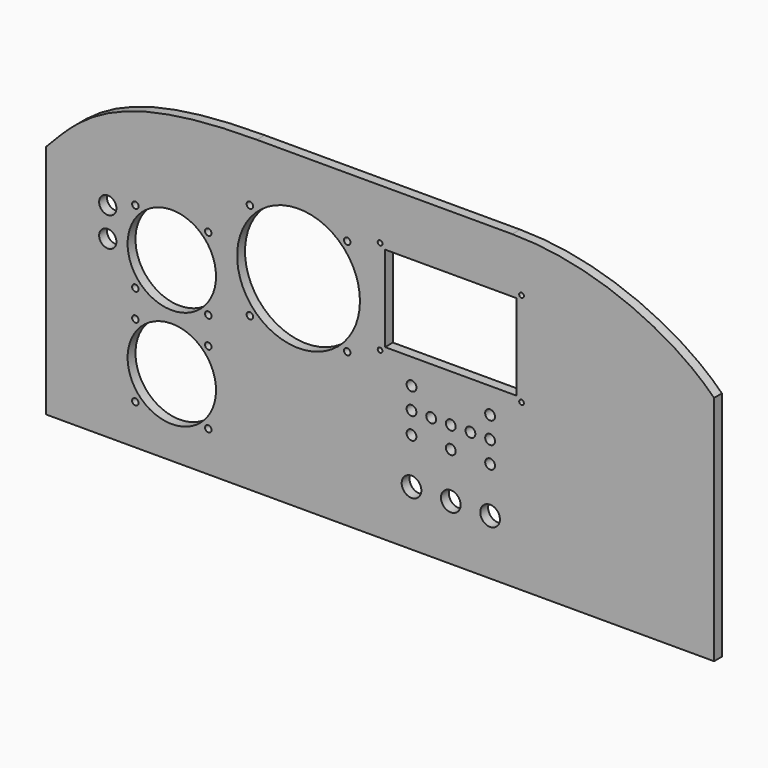
from build123d import *

# Parameters (mm, degrees)
F0_R     = 2.0955
F0_R_2   = 28.575
F0_R_3   = 2.1
F0_R_4   = 6.35
F0_R_5   = 3.175
F0_R_6   = 5.588
F0_R_7   = 39.6875
F0_R_8   = 1.524
F0_W     = 85
F0_H     = 55.5
F1_DEPTH = 6.35


with BuildPart() as f1:
    # F0 (on Front) → F1 (new body)
    with BuildSketch(Plane.XZ):
        with BuildLine():
            Line((-215.9, 52.07), (-215.9, -100.33))
            Line((-215.9, -100.33), (215.9, -100.33))
            Line((215.9, -100.33), (215.9, 49.53))
            add(Edge.make_bspline(
                [(85.438013, 100.33), (140.408784, 100.33), (191.265792, 74.631676), (215.9, 49.53)],
                knots=[0, 0, 0, 0, 140.003464, 140.003464, 140.003464, 140.003464], degree=3))
            Line((85.438013, 100.33), (-79.661987, 100.33))
            add(Edge.make_bspline(
                [(-79.661987, 100.33), (-174.395946, 100.33), (-194.33257, 74.093506), (-215.9, 52.07)],
                knots=[0, 0, 0, 0, 144.533124, 144.533124, 144.533124, 144.533124], degree=3))
        make_face()
        with Locations((-158.1912, -74.3712)):
            Circle(F0_R, mode=Mode.SUBTRACT)
        with Locations((-111.0488, -74.3712)):
            Circle(F0_R, mode=Mode.SUBTRACT)
        with Locations((-134.62, -50.8)):
            Circle(F0_R_2, mode=Mode.SUBTRACT)
        with Locations((-158.1912, -27.2288)):
            Circle(F0_R, mode=Mode.SUBTRACT)
        with Locations((-111.0488, -27.2288)):
            Circle(F0_R, mode=Mode.SUBTRACT)
        with Locations((-158.1912, -9.6012)):
            Circle(F0_R, mode=Mode.SUBTRACT)
        with Locations((-111.0488, -9.6012)):
            Circle(F0_R, mode=Mode.SUBTRACT)
        with Locations((-84.155, -1.2875)):
            Circle(F0_R_3, mode=Mode.SUBTRACT)
        with Locations((-21.255, -1.2875)):
            Circle(F0_R_3, mode=Mode.SUBTRACT)
        with Locations((20.32, -64.643)):
            Circle(F0_R_4, mode=Mode.SUBTRACT)
        with Locations((45.72, -64.643)):
            Circle(F0_R_4, mode=Mode.SUBTRACT)
        with Locations((71.12, -64.643)):
            Circle(F0_R_4, mode=Mode.SUBTRACT)
        with Locations((20.32, -35.18)):
            Circle(F0_R_5, mode=Mode.SUBTRACT)
        with Locations((45.72, -35.18)):
            Circle(F0_R_5, mode=Mode.SUBTRACT)
        with Locations((71.12, -35.18)):
            Circle(F0_R_5, mode=Mode.SUBTRACT)
        with Locations((20.32, -21.21)):
            Circle(F0_R_5, mode=Mode.SUBTRACT)
        with Locations((33.02, -21.21)):
            Circle(F0_R_5, mode=Mode.SUBTRACT)
        with Locations((45.72, -21.21)):
            Circle(F0_R_5, mode=Mode.SUBTRACT)
        with Locations((20.32, -7.24)):
            Circle(F0_R_5, mode=Mode.SUBTRACT)
        with Locations((58.42, -21.21)):
            Circle(F0_R_5, mode=Mode.SUBTRACT)
        with Locations((71.12, -21.21)):
            Circle(F0_R_5, mode=Mode.SUBTRACT)
        with Locations((71.12, -7.24)):
            Circle(F0_R_5, mode=Mode.SUBTRACT)
        with Locations((-176.022, 12.7)):
            Circle(F0_R_6, mode=Mode.SUBTRACT)
        with Locations((-134.62, 13.97)):
            Circle(F0_R_2, mode=Mode.SUBTRACT)
        with Locations((-176.022, 31.75)):
            Circle(F0_R_6, mode=Mode.SUBTRACT)
        with Locations((-158.1912, 37.5412)):
            Circle(F0_R, mode=Mode.SUBTRACT)
        with Locations((-111.0488, 37.5412)):
            Circle(F0_R, mode=Mode.SUBTRACT)
        with Locations((-52.705, 30.1625)):
            Circle(F0_R_7, mode=Mode.SUBTRACT)
        with Locations((-84.155, 61.6125)):
            Circle(F0_R_3, mode=Mode.SUBTRACT)
        with Locations((-21.255, 61.6125)):
            Circle(F0_R_3, mode=Mode.SUBTRACT)
        with Locations((0, 6.54)):
            Circle(F0_R_8, mode=Mode.SUBTRACT)
        with Locations((91.44, 6.54)):
            Circle(F0_R_8, mode=Mode.SUBTRACT)
        with Locations((45.72, 37.02)):
            Rectangle(F0_W, F0_H, mode=Mode.SUBTRACT)
        with Locations((0, 67.5)):
            Circle(F0_R_8, mode=Mode.SUBTRACT)
        with Locations((91.44, 67.5)):
            Circle(F0_R_8, mode=Mode.SUBTRACT)
    extrude(amount=F1_DEPTH)


solid = f1.part
